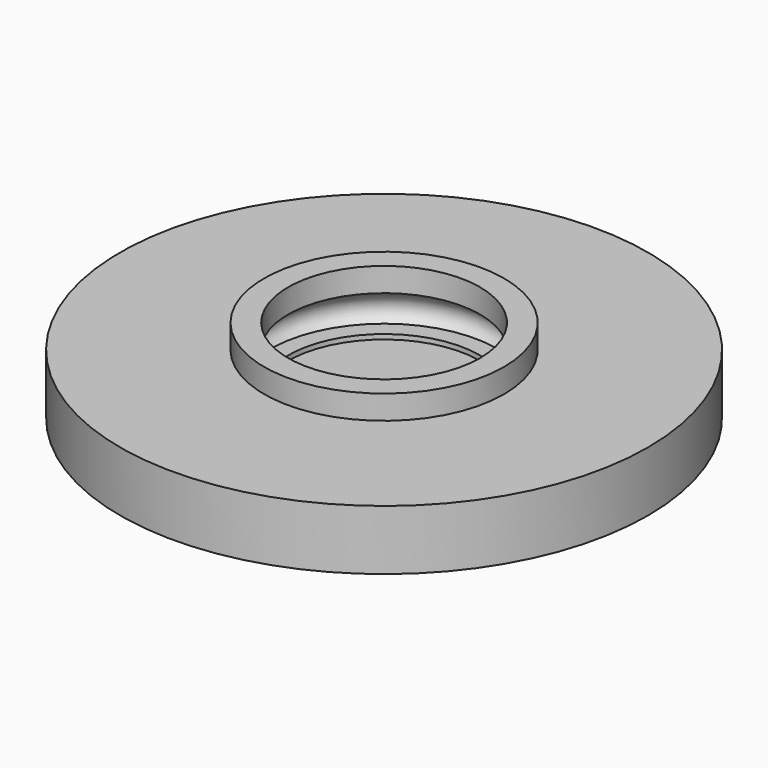
from build123d import *

# Parameters (mm, degrees)
F0_R     = 11
F0_R_2   = 4
F1_DEPTH = 2.5
F0_R_3   = 3.9
F2_DEPTH = 0.8
F5_R     = 5
F5_R_2   = 4
F6_DEPTH = 1


with BuildPart() as f1:
    # F0 (on Top) → F1 (new body)
    with BuildSketch(Plane.XY):
        Circle(F0_R)
        Circle(F0_R_2, mode=Mode.SUBTRACT)
    extrude(amount=F1_DEPTH)

    # F0 (on Top) → F2 (join)
    with BuildSketch(Plane.XY):
        Circle(F0_R_2)
        Circle(F0_R_3, mode=Mode.SUBTRACT)
        Circle(F0_R_3)
    extrude(amount=F2_DEPTH)

    # F3 (on Front) → F4 (revolve, cut)
    with BuildSketch(Plane.XZ):
        with BuildLine():
            add(Edge.make_bspline(
                [(4, 2.5), (4.80237, 2.181631), (5.20459, 1.426604), (4.788445, 0.966279), (4, 0.5)],
                knots=[0, 0, 0, 0, 1.41393, 2.828427, 2.828427, 2.828427, 2.828427], degree=3))
            Line((4, 2.5), (4, 0.5))
        make_face()
    revolve(axis=Axis((0, 0, 1.641661), (0, 0, 1)), mode=Mode.SUBTRACT)

    # F5 (on face) + F0 (on Top) → F6 (join)
    with BuildSketch(Plane.XY.offset(2.5)):
        Circle(F5_R)
        Circle(F5_R_2, mode=Mode.SUBTRACT)
    with BuildSketch(Plane.XY):
        Circle(F0_R)
        Circle(F0_R_2, mode=Mode.SUBTRACT)
    extrude(amount=F6_DEPTH)


solid = f1.part
